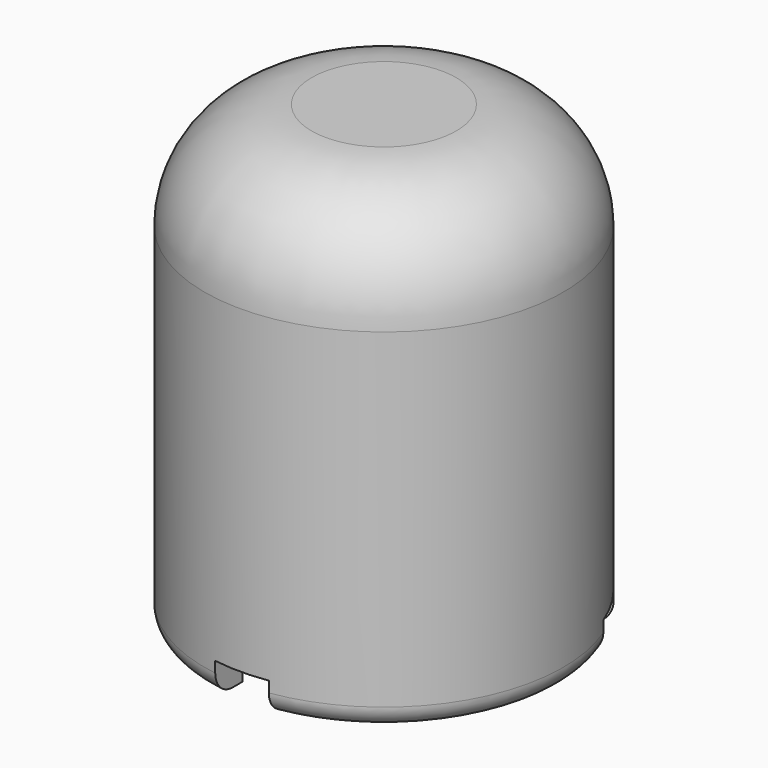
from build123d import *

# Parameters (mm, degrees)
F3_R     = 0.8
F4_DEPTH = 1.204


with BuildPart() as f1:
    # F0 (on Front) → F1 (revolve)
    with BuildSketch(Plane.XZ):
        with BuildLine():
            Line((-4.65, 1.5564), (0, 1.5564))
            Line((0, 1.5564), (0, 16.5564))
            Line((0, 16.5564), (-2.7, 16.5564))
            ThreePointArc((-2.7, 16.5564), (-5.528427, 15.384827), (-6.7, 12.5564))
            Line((-6.7, 12.5564), (-6.7, -0.578493))
            Line((-6.7, -0.578493), (-5.455864, -0.578493))
            Line((-5.455864, -0.578493), (-5.455864, 0.040707))
            ThreePointArc((-5.455864, 0.040707), (-5.777928, 0.287836), (-5.9, 0.675))
            ThreePointArc((-5.9, 0.675), (-5.702297, 1.152297), (-5.225, 1.35))
            Line((-5.225, 1.35), (-4.65, 1.35))
            Line((-4.65, 1.35), (-4.65, 1.5564))
        make_face()
    revolve(axis=Axis((0, 0, 9.0564), (0, 0, -1)))

    # F3
    f3_edges = [f1.edges().sort_by_distance(p)[0] for p in [
        (6.7, 0, -0.578493),
    ]]
    fillet(f3_edges, radius=F3_R)

    # F2 (on face) → F4 (cut)
    with BuildSketch(Plane(origin=(0, 0, -0.578493), x_dir=(1, 0, 0), z_dir=(0, 0, -1))):
        Polygon((1, 10), (-1, 10), (-1, 0.57735), (-0.5, 0.866025), (0, 0), (0.5, 0.866025), (1, 0.57735), align=None)
        Polygon((-1, 0), (-1, 0.57735), (-9.160254, -4.133975), (-8.160254, -5.866025), (0, -1.154701), (-0.5, -0.866025), (0, 0), align=None)
        Polygon((9.160254, -4.133975), (1, 0.57735), (1, 0), (0, 0), (0.5, -0.866025), (0, -1.154701), (8.160254, -5.866025), align=None)
    extrude(amount=-F4_DEPTH, mode=Mode.SUBTRACT)


solid = f1.part
